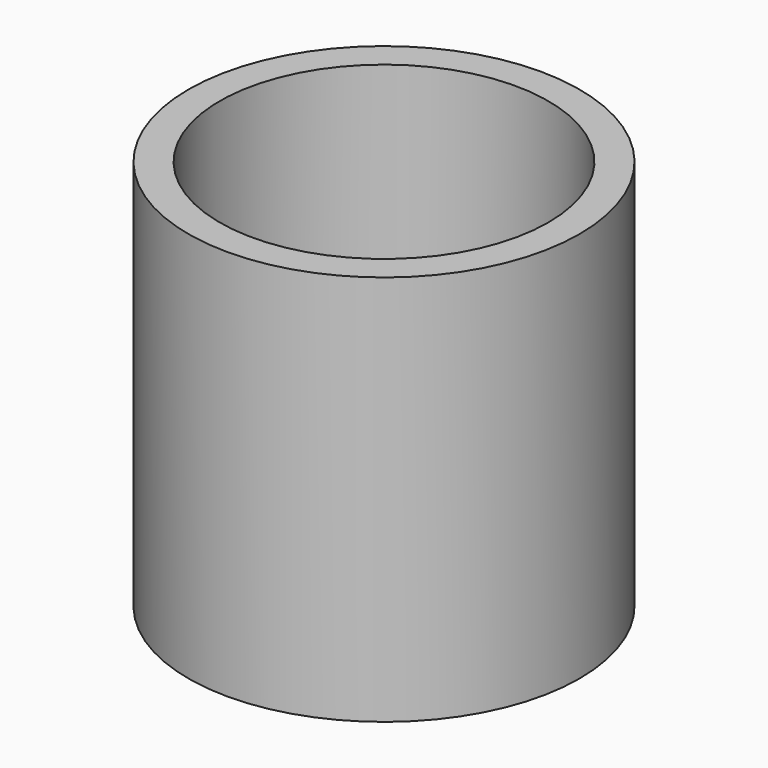
from build123d import *

# Parameters (mm, degrees)
F0_R     = 2.5
F1_DEPTH = 5
F2_T     = -0.4
F3_R     = 1.9
F4_DEPTH = 25


with BuildPart() as f1:
    # F0 (on Top) → F1 (new body)
    with BuildSketch(Plane.XY):
        Circle(F0_R)
    extrude(amount=F1_DEPTH)

    # F2
    f2_openings = [f1.faces().sort_by_distance(p)[0] for p in [
        (0, 0, 5),
    ]]
    offset(amount=F2_T, openings=f2_openings)

    # F3 (on face) → F4 (cut)
    with BuildSketch(Plane(origin=(0, 0, 0), x_dir=(1, 0, 0), z_dir=(0, 0, -1))):
        Circle(F3_R)
    extrude(amount=-F4_DEPTH, mode=Mode.SUBTRACT)


solid = f1.part
